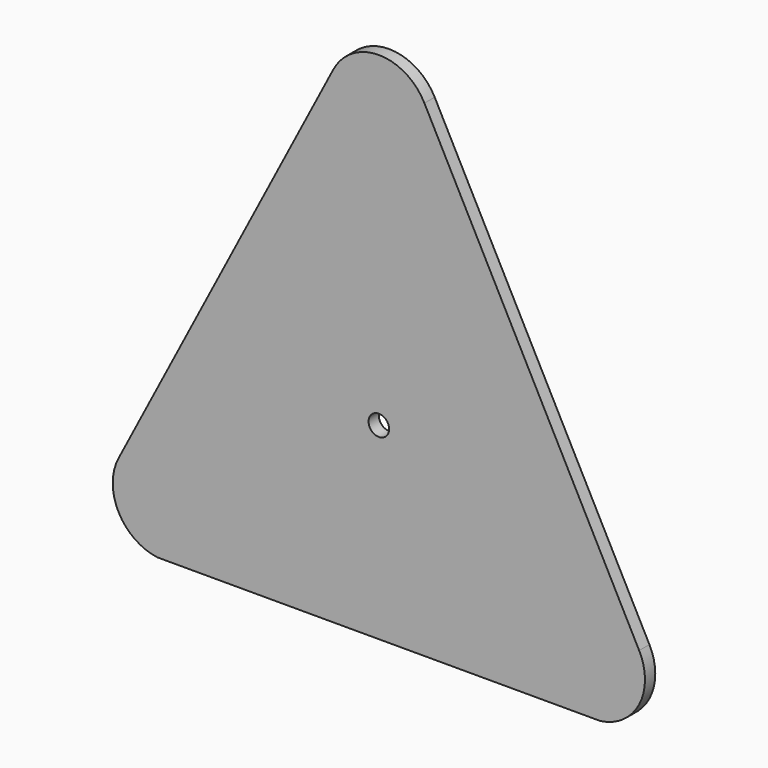
from build123d import *

# Parameters (mm, degrees)
SKETCH_R      = 2.54
EXTRUDE_DEPTH = 3.175


with BuildPart() as part:
    # Sketch → Extrude (new body)
    with BuildSketch(Plane.XZ):
        with BuildLine():
            ThreePointArc((107.810934, -12.593804), (117.43413, -5.869789), (117.434117, 5.869815))
            Line((64.34813, 107.723789), (117.434117, 5.869815))
            ThreePointArc((64.34813, 107.723789), (53.086, 114.554), (41.82387, 107.723789))
            Line((-11.26213, 5.869789), (41.82387, 107.723789))
            ThreePointArc((-11.26213, 5.869789), (-11.26213, -5.869789), (-1.638963, -12.5938))
            Line((-1.638963, -12.5938), (107.810934, -12.593804))
        make_face()
        with Locations((53.086, 33.951333)):
            Circle(SKETCH_R, mode=Mode.SUBTRACT)
    extrude(amount=EXTRUDE_DEPTH)


solid = part.part
